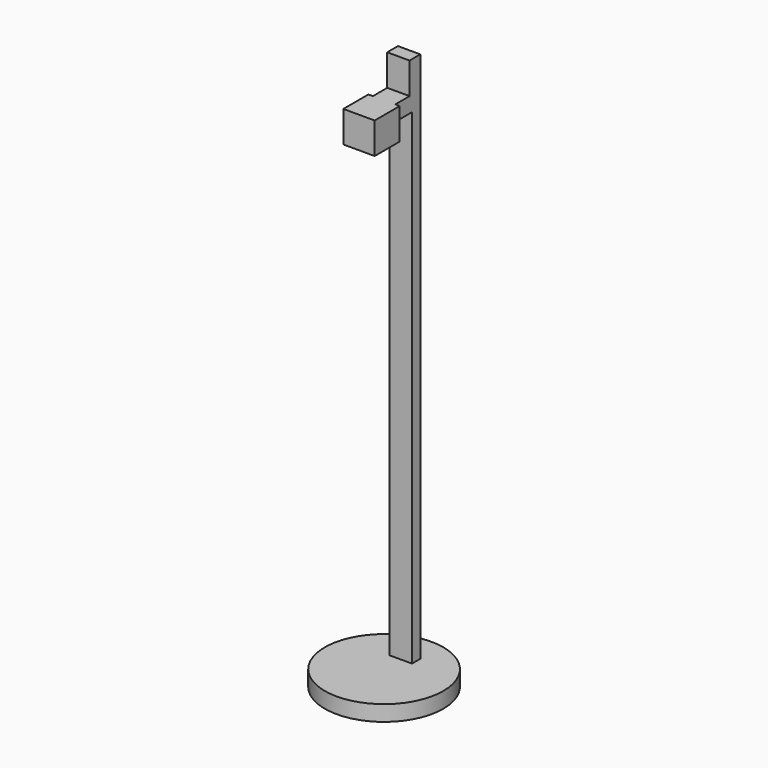
from build123d import *

# Parameters (mm, degrees)
F0_W      = 50
F0_H      = 50
F1_DEPTH  = 50
F2_W      = 35.68
F2_H      = 24.515
F4_DEPTH  = 50
F5_W      = 35.68
F5_H      = 21.411901
F6_DEPTH  = 50
F7_W      = 35.68
F7_H      = 16.614
F8_DEPTH  = 800
F9_R      = 94.574263
F9_W      = 35.68
F9_H      = 16.614
F11_DEPTH = 25


with BuildPart() as f1:
    # F0 (on Front) → F1 (new body)
    with BuildSketch(Plane.XZ):
        Rectangle(F0_W, F0_H)
    extrude(amount=F1_DEPTH)

    # F2 (on face) → F4 (join)
    with BuildSketch(Plane(origin=(0, 0, 0), x_dir=(-1, 0, 0), z_dir=(0, 1, 0))):
        with Locations((0, 12.7425)):
            Rectangle(F2_W, F2_H)
    extrude(amount=F4_DEPTH)

    # F5 (on face) → F6 (join)
    with BuildSketch(Plane.XY.offset(25)):
        with Locations((0, 39.294049)):
            Rectangle(F5_W, F5_H)
    extrude(amount=F6_DEPTH)

    # F7 (on face) → F8 (join)
    with BuildSketch(Plane(origin=(0, 0, 0.485), x_dir=(1, 0, 0), z_dir=(0, 0, -1))):
        with Locations((0, -41.693)):
            Rectangle(F7_W, F7_H)
    extrude(amount=F8_DEPTH)

    # F9 (on face) → F11 (join)
    with BuildSketch(Plane(origin=(0, 0, -799.515), x_dir=(1, 0, 0), z_dir=(0, 0, -1))):
        Circle(F9_R)
        with Locations((0, -41.693)):
            Rectangle(F9_W, F9_H, mode=Mode.SUBTRACT)
    extrude(amount=-F11_DEPTH)


solid = f1.part
